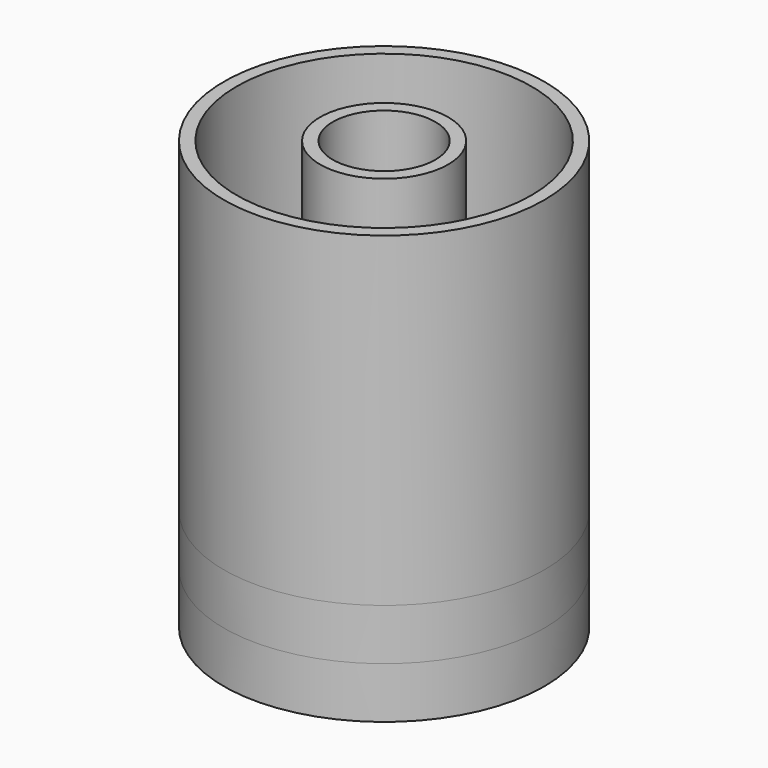
from build123d import *

# Parameters (mm, degrees)
F0_R        = 12.5
F0_R_2      = 11.5
F0_R_3      = 5
F0_R_4      = 4
F1_DEPTH    = 4
F2_R        = 5
F2_R_2      = 4
F1_FACE_R   = 12.5
F1_FACE_R_2 = 11.5
F3_DEPTH    = 25.4


with BuildPart() as f1:
    # F0 (on Top) → F1 (new body, symmetric)
    with BuildSketch(Plane.XY):
        Circle(F0_R)
        Circle(F0_R_2, mode=Mode.SUBTRACT)
        Circle(F0_R_3)
        Circle(F0_R_4, mode=Mode.SUBTRACT)
    extrude(amount=F1_DEPTH, both=True)


with BuildPart() as f3:
    # F2 (on face) + F1_face (on face) → F3 (new body)
    with BuildSketch(Plane.XY.offset(4)):
        Circle(F2_R)
        Circle(F2_R_2, mode=Mode.SUBTRACT)
    with BuildSketch(Plane.XY.offset(4)):
        Circle(F1_FACE_R)
        Circle(F1_FACE_R_2, mode=Mode.SUBTRACT)
    extrude(amount=F3_DEPTH)


solid = Compound([f1.part, f3.part])
